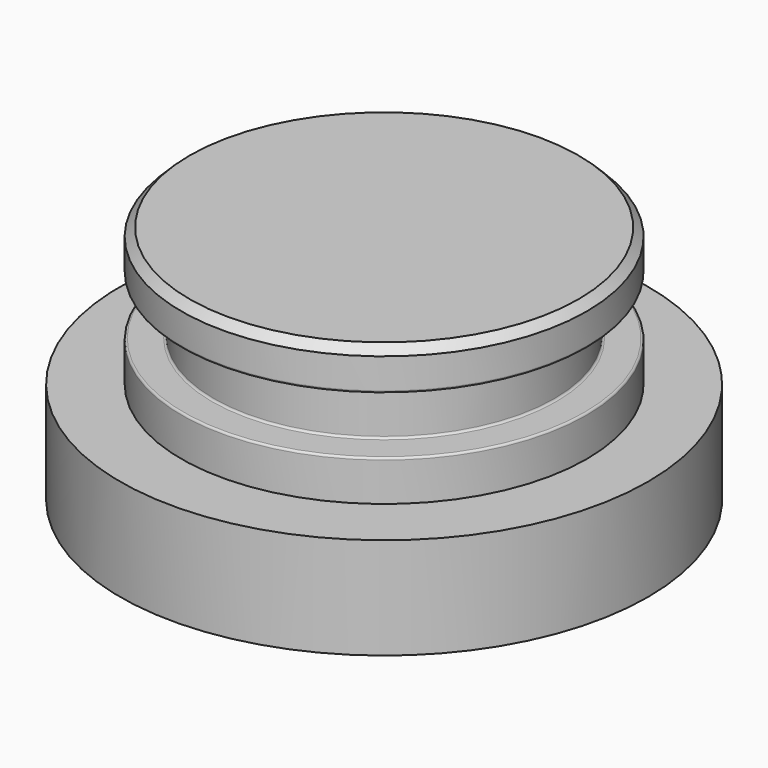
from build123d import *

# Parameters (mm, degrees)
F0_R     = 16.51
F1_DEPTH = 6.35
F2_R     = 12.6746
F3_DEPTH = 2.54
F4_R     = 10.6426
F5_DEPTH = 3.556
F6_R     = 12.6746
F7_DEPTH = 2.54
F8_R     = 0.127
F9_SIZE  = 0.508


with BuildPart() as f1:
    # F0 (on Top) → F1 (new body)
    with BuildSketch(Plane.XY):
        Circle(F0_R)
    extrude(amount=F1_DEPTH)

    # F2 (on face) → F3 (join)
    with BuildSketch(Plane.XY.offset(6.35)):
        Circle(F2_R)
    extrude(amount=F3_DEPTH)

    # F4 (on face) → F5 (join)
    with BuildSketch(Plane.XY.offset(8.89)):
        Circle(F4_R)
    extrude(amount=F5_DEPTH)

    # F6 (on face) → F7 (join)
    with BuildSketch(Plane.XY.offset(12.446)):
        Circle(F6_R)
    extrude(amount=F7_DEPTH)

    # F8
    f8_edges = [f1.edges().sort_by_distance(p)[0] for p in [
        (-10.6426, 0, 8.89),
        (-12.6746, 0, 8.89),
        (-12.6746, 0, 12.446),
        (-10.6426, 0, 12.446),
    ]]
    fillet(f8_edges, radius=F8_R)

    # F9
    f9_edges = [f1.edges().sort_by_distance(p)[0] for p in [
        (-12.6746, 0, 14.986),
    ]]
    chamfer(f9_edges, length=F9_SIZE)


solid = f1.part
